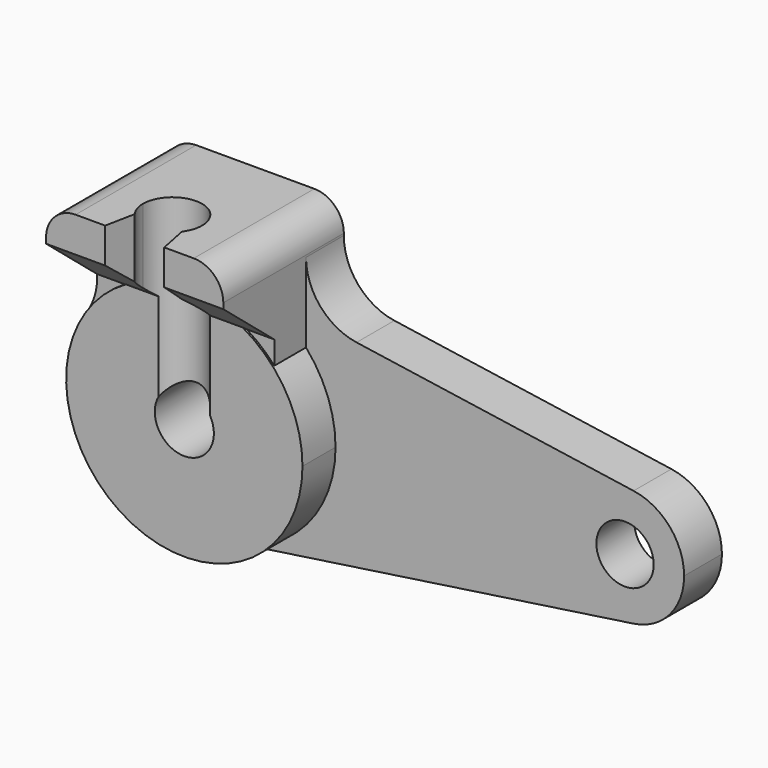
from build123d import *

# Parameters (mm, degrees)
F1_DEPTH = 15
F2_DEPTH = 8
F4_DEPTH = 15
F5_D     = 9.7
F6_D     = 10
F8_DEPTH = 29.501
F9_R     = 5
F10_R    = 10


with BuildPart() as f1:
    # F0 (on Front) → F1 (new body)
    with BuildSketch(Plane.XZ):
        with BuildLine():
            ThreePointArc((2.8985507246, -19.7888454362), (15.1322670888, -13.0772509632), (20, 0))
            ThreePointArc((20, 0), (15.1322670888, 13.0772509632), (2.8985507246, 19.7888454362))
            ThreePointArc((2.8985507246, 19.7888454362), (-20, 0), (2.8985507246, -19.7888454362))
        make_face()
    extrude(amount=F1_DEPTH)

    # F0 (on Front) → F2 (join)
    with BuildSketch(Plane.XZ):
        with BuildLine():
            ThreePointArc((2.8985507246, 19.7888454362), (15.1322670888, 13.0772509632), (20, 0))
            ThreePointArc((20, 0), (15.1322670888, -13.0772509632), (2.8985507246, -19.7888454362))
            Line((2.8985507246, -19.7888454362), (70.4492753623, -9.8944227181))
            ThreePointArc((70.4492753623, -9.8944227181), (59, 0), (70.4492753623, 9.8944227181))
            Line((70.4492753623, 9.8944227181), (2.8985507246, 19.7888454362))
        make_face()
        with BuildLine():
            ThreePointArc((79, 0), (76.5661335444, 6.5386254816), (70.4492753623, 9.8944227181))
            ThreePointArc((70.4492753623, 9.8944227181), (59, 0), (70.4492753623, -9.8944227181))
            ThreePointArc((70.4492753623, -9.8944227181), (76.5661335444, -6.5386254816), (79, 0))
        make_face()
    extrude(amount=F2_DEPTH)

    # F3 (on Right) → F4 (join, symmetric)
    with BuildSketch(Plane.YZ):
        Polygon((-14.7, 0), (0, 0), (0, 32), (-25.5, 32), (-25.5, 26.0460784735), (-14.7, 17.137655493), align=None)
    extrude(amount=F4_DEPTH, both=True)

    # F5 (through all)
    with Locations(Plane(origin=(0, 0, 0), x_dir=(1, 0, 0), z_dir=(0, 1, 0))):
        with Locations((69, 0)):
            Hole(F5_D / 2)

    # F6 (through all)
    with Locations(Plane(origin=(0, 0, 0), x_dir=(1, 0, 0), z_dir=(0, 1, 0))):
        with Locations((0, 0)):
            Hole(F6_D / 2)

    # F7 (on face) → F8 (cut, through all)
    with BuildSketch(Plane.XY.offset(32)):
        with BuildLine():
            Line((-5, -25.5), (5, -25.5))
            Line((5, -25.5), (4, -20.5))
            ThreePointArc((4, -20.5), (4.7434164903, -19.0811388301), (5, -17.5))
            ThreePointArc((5, -17.5), (0, -12.5), (-5, -17.5))
            ThreePointArc((-5, -17.5), (-4.7434164903, -19.0811388301), (-4, -20.5))
            Line((-4, -20.5), (-5, -25.5))
        make_face()
    extrude(amount=-F8_DEPTH, mode=Mode.SUBTRACT)

    # F9
    f9_edges = [f1.edges().sort_by_distance(p)[0] for p in [
        (15, -12.75, 32),
        (-15, -12.75, 32),
    ]]
    fillet(f9_edges, radius=F9_R)

    # F10
    f10_edges = [f1.edges().sort_by_distance(p)[0] for p in [
        (15, -4, 18.016298),
        (-15, -7.35, 13.228757),
    ]]
    fillet(f10_edges, radius=F10_R)


solid = f1.part
